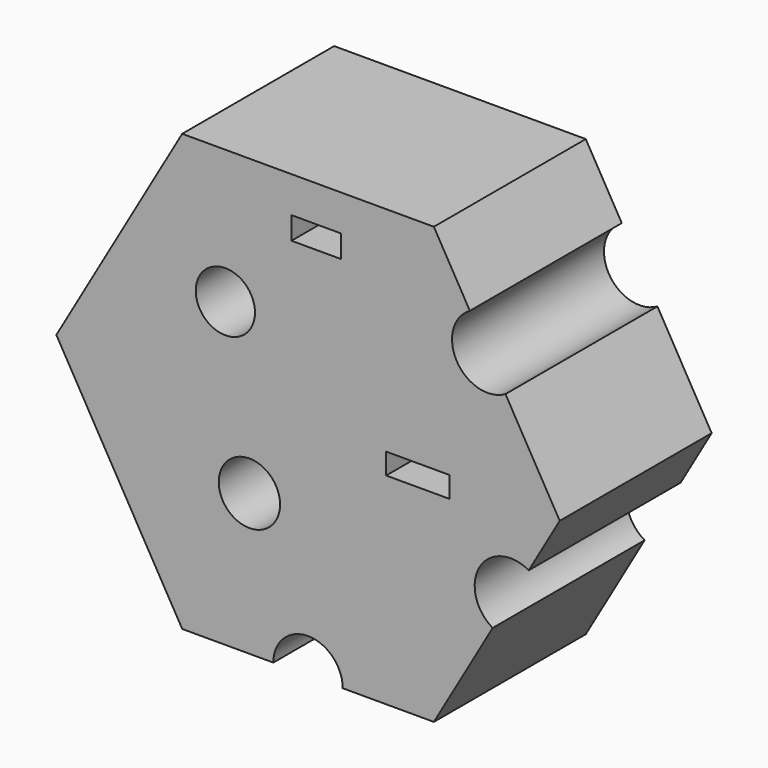
from build123d import *

# Parameters (mm, degrees)
F0_R     = 4.100227
F0_R_2   = 3.959834
F0_W     = 8.443266
F0_H     = 2.814422
F0_W_2   = 6.633996
F0_H_2   = 3.015455
F1_DEPTH = 25.4


with BuildPart() as f1:
    # F0 (on Front) → F1 (new body)
    with BuildSketch(Plane.XZ):
        with BuildLine():
            Line((-8.626849, -4.623693), (3.561407, -4.623693))
            Line((3.561407, -4.623693), (11.427413, 9.000629))
            ThreePointArc((11.427413, 9.000629), (9.664283, 15.580721), (16.244375, 17.343851))
            Line((16.244375, 17.343851), (20.390804, 24.525678))
            Line((20.390804, 24.525678), (13.137822, 37.088213))
            ThreePointArc((13.137822, 37.088213), (6.627948, 38.832528), (8.372263, 45.342401))
            Line((8.372263, 45.342401), (3.561407, 53.675049))
            Line((3.561407, 53.675049), (-30.097388, 53.675049))
            Line((-30.097388, 53.675049), (-46.926785, 24.525678))
            Line((-46.926785, 24.525678), (-30.097388, -4.623693))
            Line((-30.097388, -4.623693), (-17.909132, -4.623693))
            ThreePointArc((-17.909132, -4.623693), (-13.26799, 0.017448), (-8.626849, -4.623693))
        make_face()
        with Locations((-21.108165, 14.273142)):
            Circle(F0_R, mode=Mode.SUBTRACT)
        with Locations((-24.324648, 35.783365)):
            Circle(F0_R_2, mode=Mode.SUBTRACT)
        with Locations((1.407211, 23.721558)):
            Rectangle(F0_W, F0_H, mode=Mode.SUBTRACT)
        with Locations((-12.162324, 47.3426)):
            Rectangle(F0_W_2, F0_H_2, mode=Mode.SUBTRACT)
    extrude(amount=F1_DEPTH)


solid = f1.part
